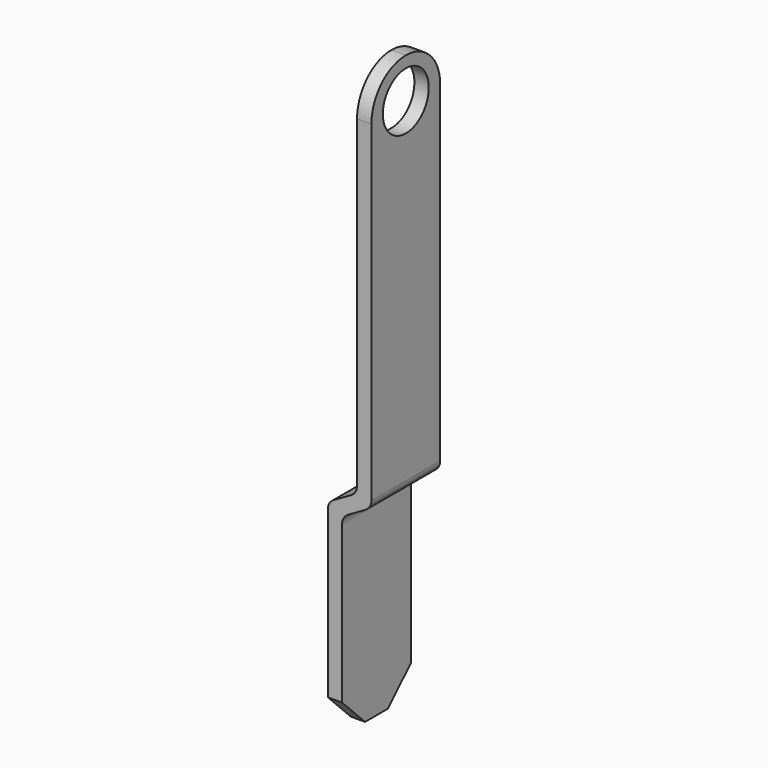
from build123d import *

# Parameters (mm, degrees)
F1_DEPTH = 7.5
F2_R     = 5
F3_DEPTH = 25
F4_SIZE  = 5
F5_R     = 2


with BuildPart() as f1:
    # F0 (on Front) → F1 (new body, symmetric)
    with BuildSketch(Plane.XZ):
        Polygon((0, -33.556624), (0, 0), (5.1, 2.944486), (5.1, 69.387862), (2.6, 69.387862), (2.6, 4.387862), (-2.5, 1.443376), (-2.5, -33.556624), align=None)
    extrude(amount=F1_DEPTH, both=True)

    # F2 (on face) → F3 (cut)
    with BuildSketch(Plane(origin=(2.6, 0, 0), x_dir=(0, -1, 0), z_dir=(-1, 0, 0))):
        with BuildLine():
            Line((-7.5, 69.387862), (-7.5, 61.887862))
            ThreePointArc((-7.5, 61.887862), (-5.303301, 67.191163), (0, 69.387862))
            Line((0, 69.387862), (-7.5, 69.387862))
        make_face()
        with Locations((0, 62.387862)):
            Circle(F2_R)
        with BuildLine():
            Line((7.5, 69.387862), (0, 69.387862))
            ThreePointArc((0, 69.387862), (5.303301, 67.191163), (7.5, 61.887862))
            Line((7.5, 61.887862), (7.5, 69.387862))
        make_face()
    extrude(amount=-F3_DEPTH, mode=Mode.SUBTRACT)

    # F4
    f4_edges = [f1.edges().sort_by_distance(p)[0] for p in [
        (-1.25, 7.5, -33.556624),
        (-1.25, -7.5, -33.556624),
    ]]
    chamfer(f4_edges, length=F4_SIZE)

    # F5
    f5_edges = [f1.edges().sort_by_distance(p)[0] for p in [
        (-2.5, 0, 1.443376),
        (2.6, 0, 4.387862),
        (5.1, 0, 2.944486),
        (0, 0, 0),
    ]]
    fillet(f5_edges, radius=F5_R)


solid = f1.part
